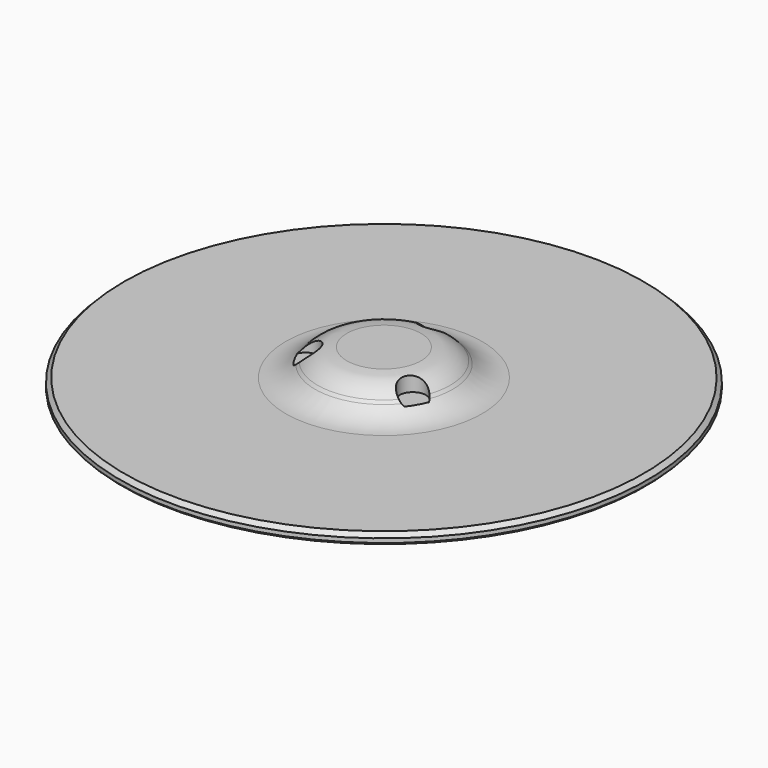
from build123d import *

# Parameters (mm, degrees)
CHAMFER_SIZE = 0.5
SKETCH001_R  = 3.2
POCKET_DEPTH = 4


with BuildPart() as part:
    # Sketch → Revolution (revolve)
    with BuildSketch(Plane.XZ):
        with BuildLine():
            Line((-63.5, 0), (-9, 0))
            Line((-9, 0), (-9, 6.5))
            Line((-9, 6.5), (-8, 7.5))
            Line((-8, 7.5), (0, 7.5))
            Line((0, 7.5), (0, 9))
            Line((0, 9), (-9, 9))
            ThreePointArc((-9, 9), (-12.826834, 8.238795), (-16.071068, 6.071068))
            Line((-16.071068, 6.071068), (-16.713203, 5.428932))
            ThreePointArc((-23.784271, 2.5), (-19.957437, 3.261205), (-16.713203, 5.428932))
            Line((-23.784271, 2.5), (-63, 2.5))
            Line((-63, 2.5), (-64, 1.5))
            Line((-64, 1.5), (-64, 0.5))
            Line((-64, 0.5), (-63.5, 0))
        make_face()
    revolve(axis=Axis((0, 0, 0), (0, 0, 1)))

    # Chamfer
    chamfer_edges = [part.edges().sort_by_distance(p)[0] for p in [
        (9, 0, 0),
    ]]
    chamfer(chamfer_edges, length=CHAMFER_SIZE)

    # Sketch001 (on Face13 of Chamfer) → Pocket (cut)
    with BuildSketch(Plane(origin=(0, 0, 9), x_dir=(-1, 0, 0), z_dir=(0, 0, 1))):
        with Locations((-12.990381, 7.5)):
            Circle(SKETCH001_R)
        with Locations((12.990381, 7.5)):
            Circle(SKETCH001_R)
        with Locations((0, -15)):
            Circle(SKETCH001_R)
    extrude(amount=-POCKET_DEPTH, mode=Mode.SUBTRACT)


solid = part.part
